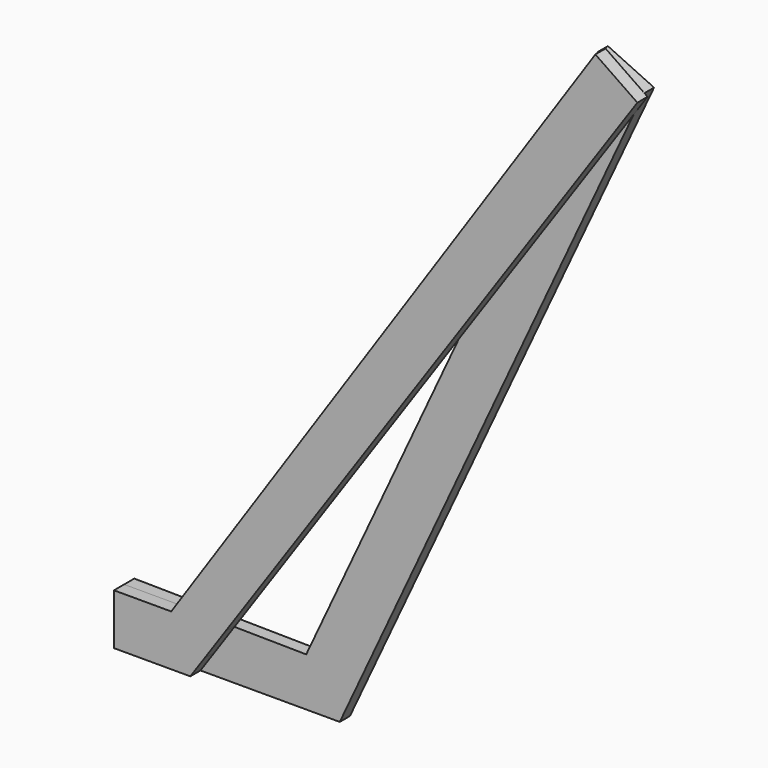
from build123d import *

# Parameters (mm, degrees)
F0_W     = 28.575
F0_H     = 25.4
F1_DEPTH = 6.35
F3_DEPTH = 6.35


with BuildPart() as f1:
    # F0 (on Front) → F1 (new body)
    with BuildSketch(Plane.XZ):
        with Locations((14.2875, 12.7)):
            Rectangle(F0_W, F0_H)
        Polygon((28.575, 25.4), (28.575, 0), (38.1, 0), align=None)
        Polygon((28.575, 25.4), (38.1, 0), (45.053432, 10.117306), align=None)
        Polygon((55.556936, 25.4), (28.575, 25.4), (45.053432, 10.117306), align=None)
        Polygon((240.16133, 338.845199), (28.575, 25.4), (55.556936, 25.4), (261.094135, 324.45848), align=None)
    extrude(amount=F1_DEPTH)


with BuildPart() as f3:
    # F2 (on Front) → F3 (new body)
    with BuildSketch(Plane.XZ):
        Polygon((0, 25.4), (0, 0), (107.569, 0), (259.269008, 325.321718), (236.248791, 336.056222), (90.827313, 24.198856), align=None)
    extrude(amount=-F3_DEPTH)


solid = Compound([f1.part, f3.part])
